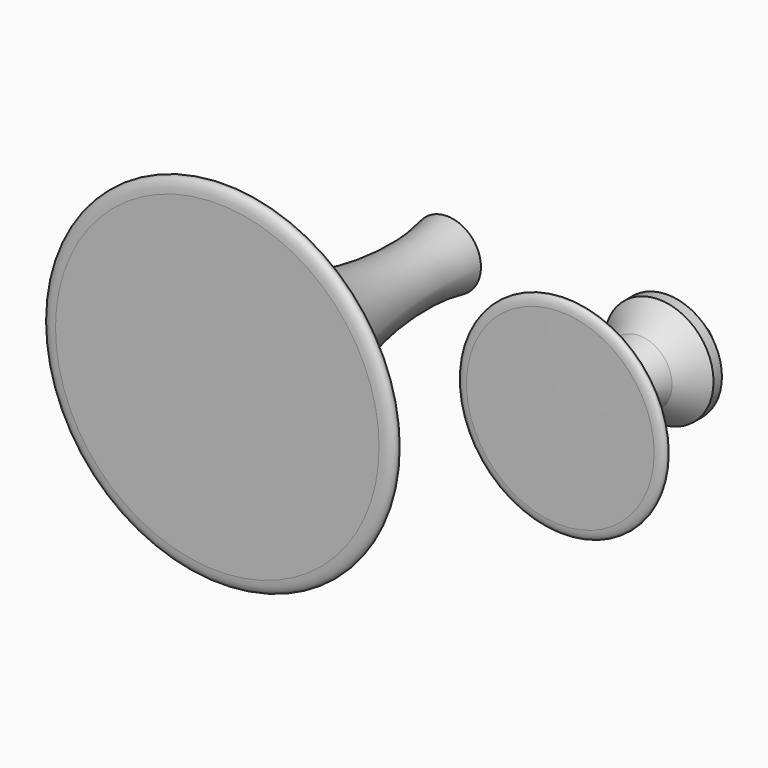
from build123d import *


with BuildPart() as f1:
    # F0 (on Top) → F1 (revolve)
    with BuildSketch(Plane.XY):
        with BuildLine():
            add(Edge.make_bspline(
                [(8.9798149489, 38.4393385582), (4.4575230801, 16.7038398757), (12.8075117564, -15.8321490101), (26.4804505514, -27.6088970143)],
                knots=[0, 0, 0, 0, 68.3274591122, 68.3274591122, 68.3274591122, 68.3274591122], degree=3))
            Line((8.9798149489, 38.4393385582), (0, 38.4393385582))
            Line((0, 38.4393385582), (0, -27.6088970143))
            Line((0, -27.6088970143), (26.4804505514, -27.6088970143))
        make_face()
        with BuildLine():
            Line((32.0849334913, -27.6088970143), (26.4804505514, -27.6088970143))
            Line((26.4804505514, -27.6088970143), (0, -27.6088970143))
            Line((0, -27.6088970143), (0, -37.7606614418))
            Line((0, -37.7606614418), (42.9198360595, -37.7606614418))
            add(Edge.make_bspline(
                [(42.9198360595, -33.8524829969), (47.4887453404, -33.9147504881), (48.041179556, -37.781804595), (42.9198360595, -37.7606614418)],
                knots=[0, 0, 0, 0, 3.908178445, 3.908178445, 3.908178445, 3.908178445], degree=3))
            Line((42.9198360595, -33.8524829969), (36.9030995862, -33.8524829969))
            add(Edge.make_bspline(
                [(36.9030995862, -30.3280051941), (41.0436541889, -30.4159878045), (39.9114678228, -33.8524829969), (36.9030995862, -33.8524829969)],
                knots=[0, 0, 0, 0, 3.5244778027, 3.5244778027, 3.5244778027, 3.5244778027], degree=3))
            Line((36.9030995862, -30.3280051941), (32.0849334913, -30.3280051941))
            add(Edge.make_bspline(
                [(32.0849334913, -27.6088970143), (36.4400201546, -27.6538079679), (36.9030995862, -30.3280051941), (32.0849334913, -30.3280051941)],
                knots=[0, 0, 0, 0, 2.7191081798, 2.7191081798, 2.7191081798, 2.7191081798], degree=3))
        make_face()
    revolve(axis=Axis((0, 3.5722250685, 0), (0, -1, 0)))


with BuildPart() as f2:
    # F0 (on Top) → F2 (revolve)
    with BuildSketch(Plane.XY):
        Polygon((78.6937419057, 31.1883083037), (76.169017965, 28.4010556419), (78.6937419057, 28.4010556419), align=None)
        with BuildLine():
            Line((72.8578472876, 1.0551050639), (64.2087116049, 1.0551050639))
            Line((64.2087116049, 1.0551050639), (64.2087116049, -4.3720102617))
            Line((64.2087116049, -4.3720102617), (89.1011396842, -4.2869715505))
            add(Edge.make_bspline(
                [(89.1011396842, -1.5915932173), (92.5463321222, -1.6938814685), (92.5463321222, -4.2719155935), (89.1011396842, -4.2869715505)],
                knots=[0, 0, 0, 0, 2.6953783332, 2.6953783332, 2.6953783332, 2.6953783332], degree=3))
            Line((89.1011396842, -1.5915932173), (81.5069829702, -1.5915932173))
            add(Edge.make_bspline(
                [(81.5069829702, 1.0551050639), (84.6280796563, 1.0683012877), (85.3040613272, -1.5915932173), (81.5069829702, -1.5915932173)],
                knots=[0, 0, 0, 0, 2.6466982812, 2.6466982812, 2.6466982812, 2.6466982812], degree=3))
            Line((81.5069829702, 1.0551050639), (72.8578472876, 1.0551050639))
        make_face()
        with BuildLine():
            Line((70.586318236, 9.3438598765), (64.2087116049, 9.2969409062))
            Line((64.2087116049, 9.2969409062), (64.2087116049, 7.0422259413))
            Line((64.2087116049, 7.0422259413), (70.9783486906, 7.1667311098))
            add(Edge.make_bspline(
                [(70.586318236, 9.3438598765), (70.6810001111, 8.6329643213), (70.8122395566, 7.9101162839), (70.9783486906, 7.1667311098)],
                knots=[12.9532734528, 12.9532734528, 12.9532734528, 12.9532734528, 15.2206009262, 15.2206009262, 15.2206009262, 15.2206009262], degree=3))
        make_face()
        with BuildLine():
            Line((64.2087116049, 30.4882603117), (64.2087116049, 28.4010556419))
            Line((64.2087116049, 28.4010556419), (66.8736754889, 28.4010556419))
            Line((66.8736754889, 28.4010556419), (66.8736754889, 31.0916427703))
            ThreePointArc((66.8736754889, 31.0916427703), (65.5749201262, 30.6409911024), (64.2087116049, 30.4882603117))
        make_face()
        with BuildLine():
            Line((72.0797277207, 9.3548466367), (70.586318236, 9.3438598765))
            add(Edge.make_bspline(
                [(70.586318236, 9.3438598765), (70.6810001111, 8.6329643213), (70.8122395566, 7.9101162839), (70.9783486906, 7.1667311098)],
                knots=[12.9532734528, 12.9532734528, 12.9532734528, 12.9532734528, 15.2206009262, 15.2206009262, 15.2206009262, 15.2206009262], degree=3))
            Line((70.9783486906, 7.1667311098), (72.0797277207, 7.186987348))
            add(Edge.make_bspline(
                [(72.0797277207, 9.3548466367), (74.7121298496, 9.3548466367), (74.5572829661, 7.0321419243), (72.0797277207, 7.186987348)],
                knots=[0, 0, 0, 0, 2.1678592887, 2.1678592887, 2.1678592887, 2.1678592887], degree=3))
        make_face()
        with BuildLine():
            Line((70.9783486906, 7.1667311098), (64.2087116049, 7.0422259413))
            Line((64.2087116049, 7.0422259413), (64.2087116049, 1.0551050639))
            Line((64.2087116049, 1.0551050639), (72.8578472876, 1.0551050639))
            add(Edge.make_bspline(
                [(70.9783486906, 7.1667311098), (71.3946692984, 5.3035790958), (72.0300265914, 3.3114214462), (72.8578472876, 1.0551050639)],
                knots=[15.2206009262, 15.2206009262, 15.2206009262, 15.2206009262, 20.9032213171, 20.9032213171, 20.9032213171, 20.9032213171], degree=3))
        make_face()
        Polygon((66.8736754889, 28.4010556419), (64.2087116049, 28.4010556419), (64.2087116049, 21.958326381), (72.8578472876, 21.958326381), (78.6937419057, 28.4010556419), (76.169017965, 28.4010556419), align=None)
        with BuildLine():
            Line((64.2087116049, 42.862008982), (64.2087116049, 30.4882603117))
            ThreePointArc((64.2087116049, 30.4882603117), (65.5749201262, 30.6409911024), (66.8736754889, 31.0916427703))
            ThreePointArc((66.8736754889, 31.0916427703), (70.2428551493, 38.0413431681), (64.2087116049, 42.862008982))
        make_face()
        with BuildLine():
            Line((72.8578472876, 21.958326381), (64.2087116049, 21.958326381))
            Line((64.2087116049, 21.958326381), (64.2087116049, 9.2969409062))
            Line((64.2087116049, 9.2969409062), (70.586318236, 9.3438598765))
            add(Edge.make_bspline(
                [(72.8578472876, 21.958326381), (70.6976657819, 17.0764608749), (70.0453993639, 13.4052160901), (70.586318236, 9.3438598765)],
                knots=[0, 0, 0, 0, 12.9532734528, 12.9532734528, 12.9532734528, 12.9532734528], degree=3))
        make_face()
    revolve(axis=Axis((64.2087116049, 19.2449993602, 0), (0, -1, 0)))


solid = Compound([f1.part, f2.part])
